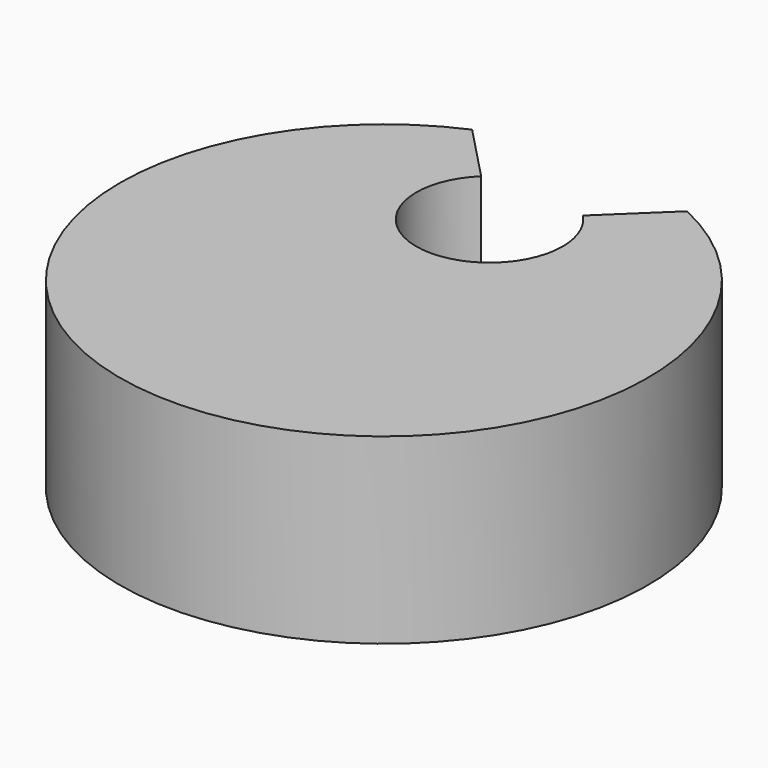
from build123d import *

# Parameters (mm, degrees)
F0_R     = 36.150208
F1_DEPTH = 25
F3_DEPTH = 25


with BuildPart() as f1:
    # F0 (on Top) → F1 (new body)
    with BuildSketch(Plane.XY):
        Circle(F0_R)
    extrude(amount=F1_DEPTH)

    # F2 (on face) → F3 (cut)
    with BuildSketch(Plane.XY.offset(25)):
        with BuildLine():
            Line((-14.431821, 33.144533), (-6.935324, 25.316835))
            ThreePointArc((-6.935324, 25.316835), (-3.736864, 27.379792), (0, 28.102137))
            Line((0, 28.102137), (0, 36.150208))
            ThreePointArc((0, 36.150208), (-7.370745, 35.390813), (-14.431821, 33.144533))
        make_face()
        with BuildLine():
            Line((0, 36.150208), (0, 28.102137))
            ThreePointArc((0, 28.102137), (3.937046, 27.296874), (7.241731, 25.010428))
            Line((7.241731, 25.010428), (15.317601, 32.744597))
            ThreePointArc((15.317601, 32.744597), (7.845812, 35.288536), (0, 36.150208))
        make_face()
        with BuildLine():
            Line((-6.935324, 25.316835), (0, 18.075104))
            Line((0, 18.075104), (0, 28.102137))
            ThreePointArc((0, 28.102137), (-3.736864, 27.379792), (-6.935324, 25.316835))
        make_face()
        with BuildLine():
            Line((0, 28.102137), (0, 18.075104))
            Line((0, 18.075104), (7.241731, 25.010428))
            ThreePointArc((7.241731, 25.010428), (3.937046, 27.296874), (0, 28.102137))
        make_face()
        with BuildLine():
            Line((0, 18.075104), (0, 8.048071))
            ThreePointArc((0, 8.048071), (7.090183, 10.984921), (10.027033, 18.075104))
            ThreePointArc((10.027033, 18.075104), (9.304689, 21.811968), (7.241731, 25.010428))
            Line((7.241731, 25.010428), (0, 18.075104))
        make_face()
        with BuildLine():
            ThreePointArc((-6.935324, 25.316835), (-9.304689, 14.33824), (0, 8.048071))
            Line((0, 8.048071), (0, 18.075104))
            Line((0, 18.075104), (-6.935324, 25.316835))
        make_face()
    extrude(amount=-F3_DEPTH, mode=Mode.SUBTRACT)


solid = f1.part
